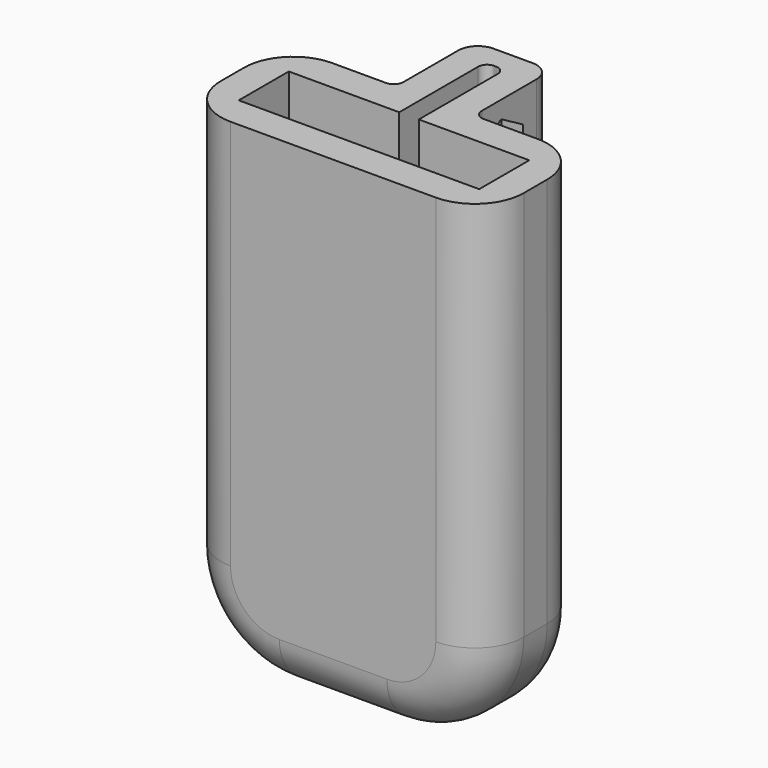
from build123d import *

# Parameters (mm, degrees)
PAD_DEPTH       = 50
POCKET_DEPTH    = 42
POCKET001_DEPTH = 31.001
SKETCH003_R     = 1.7
POCKET002_DEPTH = 19.501
POCKET003_DEPTH = 2.2
FILLET_R        = 6
FILLET001_R     = 2
FILLET002_R     = 2
FILLET003_R     = 1
FILLET004_R     = 1
FILLET005_R     = 10
FILLET006_R     = 10
FILLET007_R     = 5
FILLET008_R     = 5
FILLET009_R     = 0.9
FILLET010_R     = 0.9
FILLET011_R     = 0.9
FILLET012_R     = 0.9
CHAMFER_SIZE    = 1.7
CHAMFER001_SIZE = 1.7


with BuildPart() as part:
    # Sketch → Pad (new body)
    with BuildSketch(Plane.XY):
        Polygon((15.5, 6.5), (15.5, -6.5), (-15.5, -6.5), (-15.5, 6.5), (-4, 6.5), (-4, 16.5), (4, 16.5), (4, 6.5), align=None)
    extrude(amount=PAD_DEPTH)

    # Sketch001 → Pocket (cut)
    with BuildSketch(Plane.XY.offset(50)):
        Polygon((-12.3, 3.2), (-12.3, -3.2), (12.3, -3.2), (12.3, 3.2), (1, 3.2), (1, 14.2), (-1, 14.2), (-1, 3.2), align=None)
    extrude(amount=-POCKET_DEPTH, mode=Mode.SUBTRACT)

    # Sketch002 → Pocket001 (cut, through all)
    with BuildSketch(Plane(origin=(-15.5, 0, 0), x_dir=(0, -1, 0), z_dir=(-1, 0, 0))):
        Polygon((-21.5, 25), (-6.5, 10), (-6.5, 0), (-21.5, 0), align=None)
    extrude(amount=-POCKET001_DEPTH, mode=Mode.SUBTRACT)

    # Sketch003 → Pocket002 (cut, through all)
    with BuildSketch(Plane.YZ.offset(4)):
        with Locations((10, 45)):
            Circle(SKETCH003_R)
        with Locations((10, 30)):
            Circle(SKETCH003_R)
    extrude(amount=-POCKET002_DEPTH, mode=Mode.SUBTRACT)

    # Sketch004 → Pocket003 (cut)
    with BuildSketch(Plane.YZ.offset(4)):
        Polygon((10, 48.233162), (7.2, 46.616581), (7.2, 43.383419), (10, 41.766838), (12.8, 43.383419), (12.8, 46.616581), align=None)
        Polygon((10, 33.233162), (7.2, 31.616581), (7.2, 28.383419), (10, 26.766838), (12.8, 28.383419), (12.8, 31.616581), align=None)
    extrude(amount=-POCKET003_DEPTH, mode=Mode.SUBTRACT)

    # Fillet
    fillet_edges = [part.edges().sort_by_distance(p)[0] for p in [
        (0, 16.5, 20),
    ]]
    fillet(fillet_edges, radius=FILLET_R)

    # Fillet001
    fillet001_edges = [part.edges().sort_by_distance(p)[0] for p in [
        (4, 10.62132, 14.12132),
    ]]
    fillet(fillet001_edges, radius=FILLET001_R)

    # Fillet002
    fillet002_edges = [part.edges().sort_by_distance(p)[0] for p in [
        (-4, 10.62132, 14.12132),
    ]]
    fillet(fillet002_edges, radius=FILLET002_R)

    # Fillet003
    fillet003_edges = [part.edges().sort_by_distance(p)[0] for p in [
        (4, 6.5, 31.414214),
    ]]
    fillet(fillet003_edges, radius=FILLET003_R)

    # Fillet004
    fillet004_edges = [part.edges().sort_by_distance(p)[0] for p in [
        (-4, 6.5, 31.414214),
    ]]
    fillet(fillet004_edges, radius=FILLET004_R)

    # Fillet005
    fillet005_edges = [part.edges().sort_by_distance(p)[0] for p in [
        (-15.5, 0, 0),
    ]]
    fillet(fillet005_edges, radius=FILLET005_R)

    # Fillet006
    fillet006_edges = [part.edges().sort_by_distance(p)[0] for p in [
        (15.5, 0, 0),
    ]]
    fillet(fillet006_edges, radius=FILLET006_R)

    # Fillet007
    fillet007_edges = [part.edges().sort_by_distance(p)[0] for p in [
        (15.5, 6.5, 30),
    ]]
    fillet(fillet007_edges, radius=FILLET007_R)

    # Fillet008
    fillet008_edges = [part.edges().sort_by_distance(p)[0] for p in [
        (15.5, -6.5, 30),
    ]]
    fillet(fillet008_edges, radius=FILLET008_R)

    # Fillet009
    fillet009_edges = [part.edges().sort_by_distance(p)[0] for p in [
        (-1, 14.2, 33.85),
    ]]
    fillet(fillet009_edges, radius=FILLET009_R)

    # Fillet010
    fillet010_edges = [part.edges().sort_by_distance(p)[0] for p in [
        (1, 14.2, 33.85),
    ]]
    fillet(fillet010_edges, radius=FILLET010_R)

    # Fillet011
    fillet011_edges = [part.edges().sort_by_distance(p)[0] for p in [
        (1, 4.85, 8),
    ]]
    fillet(fillet011_edges, radius=FILLET011_R)

    # Fillet012
    fillet012_edges = [part.edges().sort_by_distance(p)[0] for p in [
        (-1, 4.85, 8),
    ]]
    fillet(fillet012_edges, radius=FILLET012_R)

    # Chamfer
    chamfer_edges = [part.edges().sort_by_distance(p)[0] for p in [
        (-4, 8.3, 30),
    ]]
    chamfer(chamfer_edges, length=CHAMFER_SIZE)

    # Chamfer001
    chamfer001_edges = [part.edges().sort_by_distance(p)[0] for p in [
        (-4, 8.3, 45),
    ]]
    chamfer(chamfer001_edges, length=CHAMFER001_SIZE)


solid = part.part
